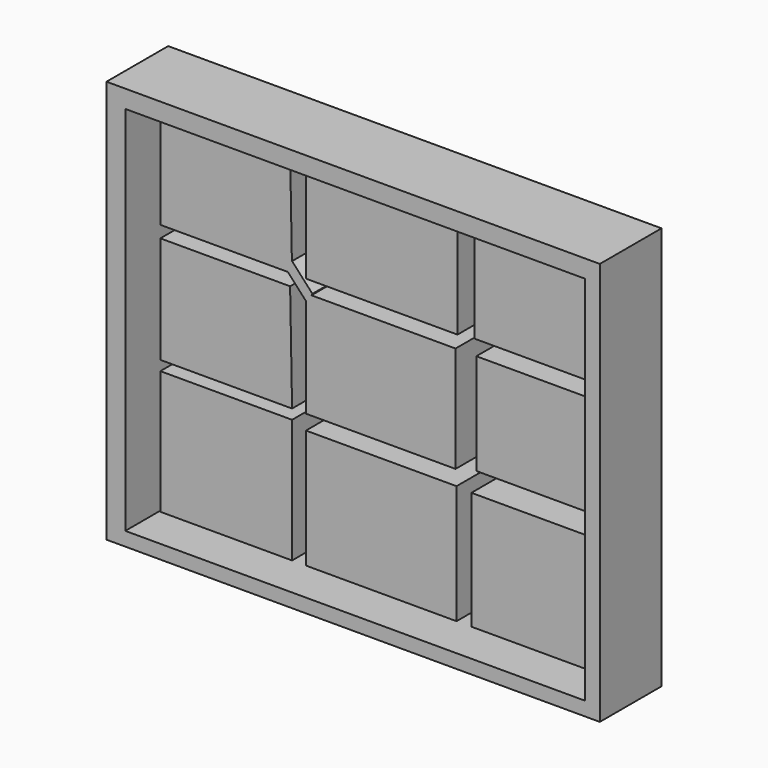
from build123d import *

# Parameters (mm, degrees)
F0_W     = 39.939741
F0_H     = 26.887536
F0_W_2   = 32.891556
F0_H_2   = 26.365449
F0_W_3   = 39.417655
F0_H_3   = 27.931714
F0_W_4   = 32.369466
F0_H_4   = 26.626493
F0_W_5   = 34.718858
F0_H_5   = 32.630509
F0_W_6   = 39.678697
F0_H_6   = 31.325289
F0_W_7   = 33.674685
F0_H_7   = 31.064244
F1_DEPTH = 12.7
F2_W     = 129.999936
F2_H     = 106.244925
F2_W_2   = 121.124439
F2_H_2   = 97.891517
F3_DEPTH = 20.32
F5_DEPTH = 12.7


with BuildPart() as f1:
    # F0 (on Front) → F1 (new body)
    with BuildSketch(Plane.XZ):
        Polygon((-22.188744, 22.188745), (-22.686661, 49.076281), (-56.907602, 49.076281), (-56.907602, 22.188745), align=None)
        with Locations((1.435742, 35.632513)):
            Rectangle(F0_W, F0_H)
        with Locations((42.289138, 35.893556)):
            Rectangle(F0_W_2, F0_H_2)
        Polygon((-22.710832, 19.056216), (-56.907602, 19.056216), (-56.907602, -9.136542), (-22.188744, -9.136542), align=None)
        with Locations((1.174699, 4.829315)):
            Rectangle(F0_W_3, F0_H_3)
        with Locations((42.550183, 5.481926)):
            Rectangle(F0_W_4, F0_H_4)
        with Locations((-39.548173, -28.062236)):
            Rectangle(F0_W_5, F0_H_5)
        with Locations((1.305221, -28.714847)):
            Rectangle(F0_W_6, F0_H_6)
        with Locations((41.897574, -28.845369)):
            Rectangle(F0_W_7, F0_H_7)
    extrude(amount=F1_DEPTH)

    # F4 (on Front) → F5 (join)
    with BuildSketch(Plane.XZ):
        Polygon((-22.188744, 25.060229), (-24.016052, 22.971876), (-18.273082, 16.706819), (-16.835863, 19.220725), align=None)
    extrude(amount=F5_DEPTH)


with BuildPart() as f3:
    # F2 (on Front) → F3 (new body)
    with BuildSketch(Plane.XZ):
        with Locations((0, 2.740963)):
            Rectangle(F2_W, F2_H)
        with Locations((0.522089, 2.218877)):
            Rectangle(F2_W_2, F2_H_2, mode=Mode.SUBTRACT)
    extrude(amount=F3_DEPTH)


solid = Compound([f1.part, f3.part])
